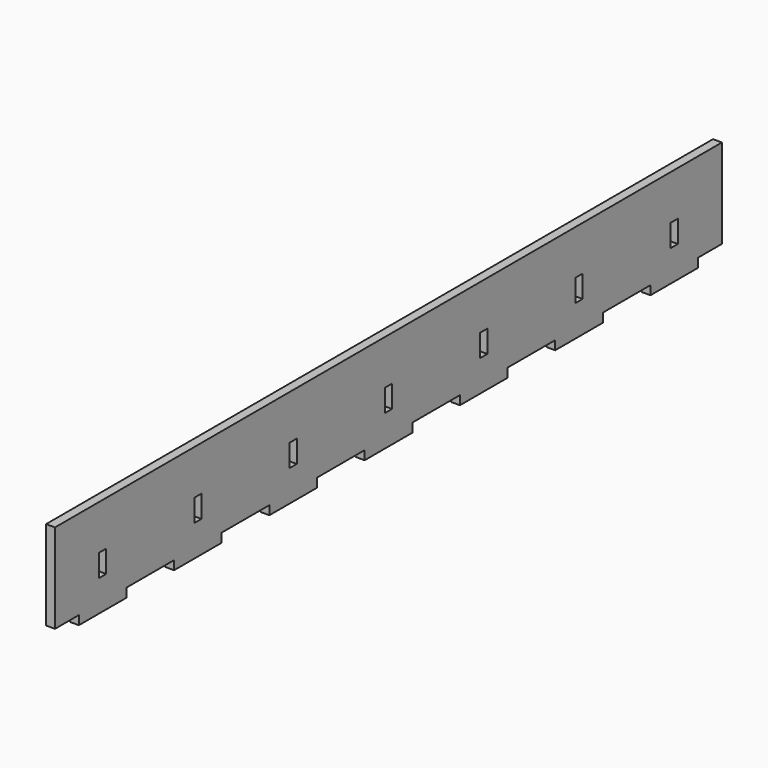
from build123d import *

# Parameters (mm, degrees)
F0_W     = 280
F0_H     = 30
F1_DEPTH = 3
F2_W     = 20
F2_H     = 3
F3_DEPTH = 3
F4_W     = 3
F4_H     = 7.5
F5_DEPTH = 25


with BuildPart() as f1:
    # F0 (on Right) → F1 (new body)
    with BuildSketch(Plane.YZ):
        Rectangle(F0_W, F0_H)
    extrude(amount=F1_DEPTH)

    # F2 (on face) → F3 (join, through all)
    with BuildSketch(Plane.YZ.offset(3)):
        with Locations((120, -16.5)):
            Rectangle(F2_W, F2_H)
        with Locations((80, -16.5)):
            Rectangle(F2_W, F2_H)
        with Locations((40, -16.5)):
            Rectangle(F2_W, F2_H)
        with Locations((0, -16.5)):
            Rectangle(F2_W, F2_H)
        with Locations((-40, -16.5)):
            Rectangle(F2_W, F2_H)
        with Locations((-80, -16.5)):
            Rectangle(F2_W, F2_H)
        with Locations((-120, -16.5)):
            Rectangle(F2_W, F2_H)
    extrude(amount=-F3_DEPTH)

    # F4 (on face) → F5 (cut)
    with BuildSketch(Plane.YZ.offset(3)):
        with Locations((120, -3.75)):
            Rectangle(F4_W, F4_H)
        with Locations((80, -3.75)):
            Rectangle(F4_W, F4_H)
        with Locations((40, -3.75)):
            Rectangle(F4_W, F4_H)
        with Locations((0, -3.75)):
            Rectangle(F4_W, F4_H)
        with Locations((-40, -3.75)):
            Rectangle(F4_W, F4_H)
        with Locations((-80, -3.75)):
            Rectangle(F4_W, F4_H)
        with Locations((-120, -3.75)):
            Rectangle(F4_W, F4_H)
    extrude(amount=-F5_DEPTH, mode=Mode.SUBTRACT)


solid = f1.part
